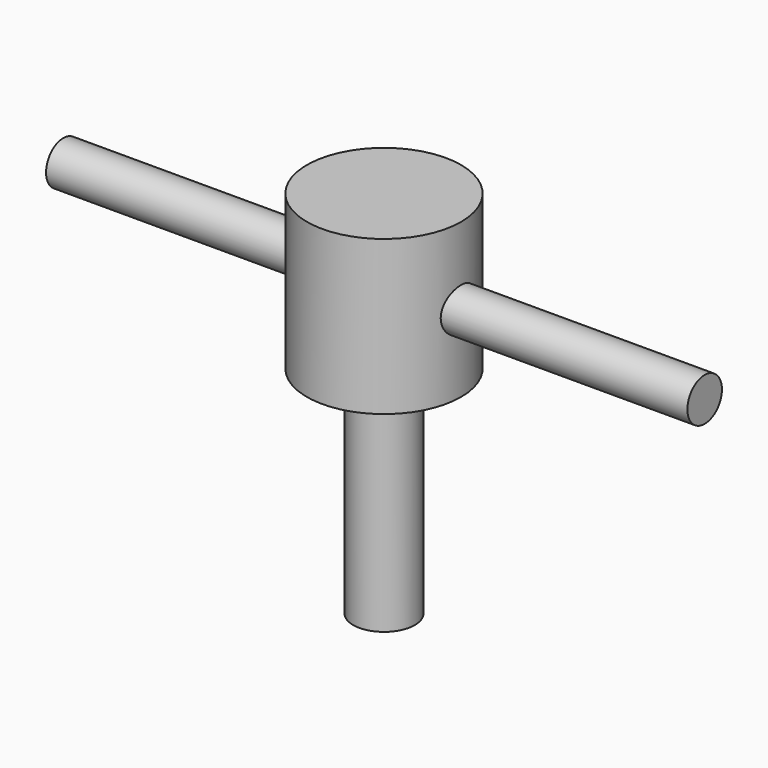
from build123d import *

# Parameters (mm, degrees)
F0_R     = 15.875
F1_DEPTH = 15.875
F2_R     = 6.35
F3_DEPTH = 44.45
F4_R     = 4.445
F5_DEPTH = 66.04


with BuildPart() as f1:
    # F0 (on Top) → F1 (new body, symmetric)
    with BuildSketch(Plane.XY):
        Circle(F0_R)
    extrude(amount=F1_DEPTH, both=True)

    # F2 (on face) → F3 (join)
    with BuildSketch(Plane(origin=(0, 0, -15.875), x_dir=(1, 0, 0), z_dir=(0, 0, -1))):
        Circle(F2_R)
    extrude(amount=F3_DEPTH)

    # F4 (on Right) → F5 (join, symmetric)
    with BuildSketch(Plane.YZ):
        Circle(F4_R)
    extrude(amount=F5_DEPTH, both=True)


solid = f1.part
